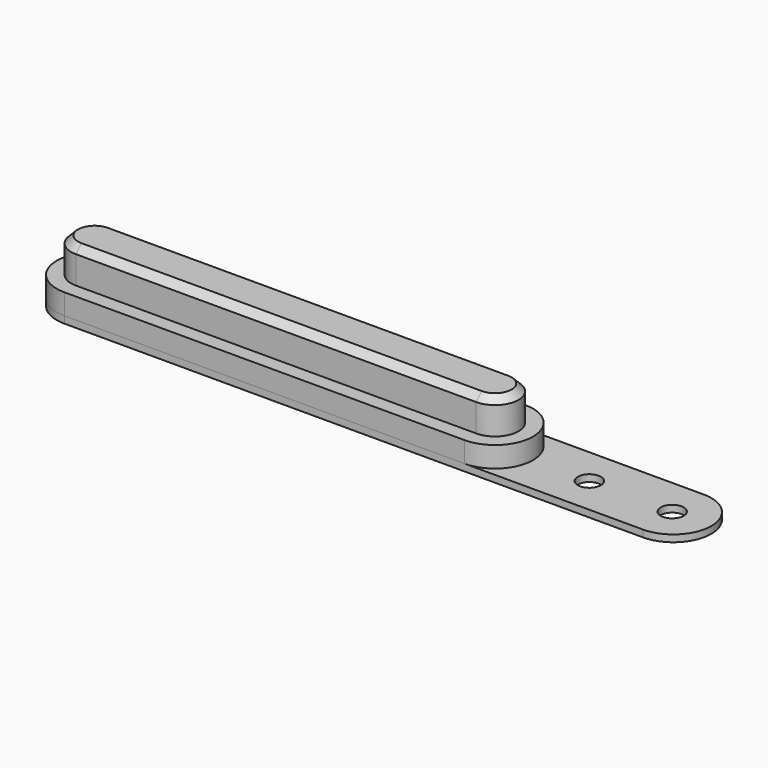
from build123d import *

# Parameters (mm, degrees)
F1_DEPTH = 1.5
F2_SIZE  = 0.3
F4_DEPTH = 0.9
F5_R     = 0.5
F6_DEPTH = 0.3
F7_R     = 0.875
F8_DEPTH = 0.6
F9_SIZE  = 0.2


with BuildPart() as f1:
    # F0 (on Top) → F1 (new body)
    with BuildSketch(Plane.XY):
        with BuildLine():
            Line((8.7, 1.02), (-8.7, 1.02))
            ThreePointArc((-8.7, 1.02), (-9.72, 0), (-8.7, -1.02))
            Line((-8.7, -1.02), (8.7, -1.02))
            ThreePointArc((8.7, -1.02), (9.72, 0), (8.7, 1.02))
        make_face()
    extrude(amount=F1_DEPTH)

    # F2
    f2_edges = [f1.edges().sort_by_distance(p)[0] for p in [
        (0, 1.02, 1.5),
        (-9.72, 0, 1.5),
        (0, -1.02, 1.5),
        (9.72, 0, 1.5),
    ]]
    chamfer(f2_edges, length=F2_SIZE)

    # F3 (on Top) → F4 (join)
    with BuildSketch(Plane.XY):
        with BuildLine():
            ThreePointArc((-8.7, 1.65), (-10.35, 0), (-8.7, -1.65))
            Line((-8.7, -1.65), (8.7, -1.65))
            ThreePointArc((8.7, -1.65), (10.35, 0), (8.7, 1.65))
            Line((8.7, 1.65), (-8.7, 1.65))
        make_face()
    extrude(amount=-F4_DEPTH)


with BuildPart() as f6:
    # F5 (on face) → F6 (new body)
    with BuildSketch(Plane(origin=(0, 0, -0.9), x_dir=(1, 0, 0), z_dir=(0, 0, -1))):
        with BuildLine():
            Line((16.45, 1.65), (-8.7, 1.65))
            ThreePointArc((-8.7, 1.65), (-10.35, 0), (-8.7, -1.65))
            Line((-8.7, -1.65), (16.45, -1.65))
            ThreePointArc((16.45, -1.65), (18.1, 0), (16.45, 1.65))
        make_face()
        with Locations((12.8, 0)):
            Circle(F5_R, mode=Mode.SUBTRACT)
        with Locations((16.4, 0)):
            Circle(F5_R, mode=Mode.SUBTRACT)
    extrude(amount=F6_DEPTH)

    # F7 (on face) → F8 (join)
    with BuildSketch(Plane(origin=(0, 0, -1.2), x_dir=(1, 0, 0), z_dir=(0, 0, -1))):
        with Locations((-5, 0)):
            Circle(F7_R)
        with Locations((5, 0)):
            Circle(F7_R)
    extrude(amount=F8_DEPTH)

    # F9
    f9_edges = [f6.edges().sort_by_distance(p)[0] for p in [
        (-5.875, 0, -1.8),
        (4.125, 0, -1.8),
    ]]
    chamfer(f9_edges, length=F9_SIZE)


solid = Compound([f1.part, f6.part])
